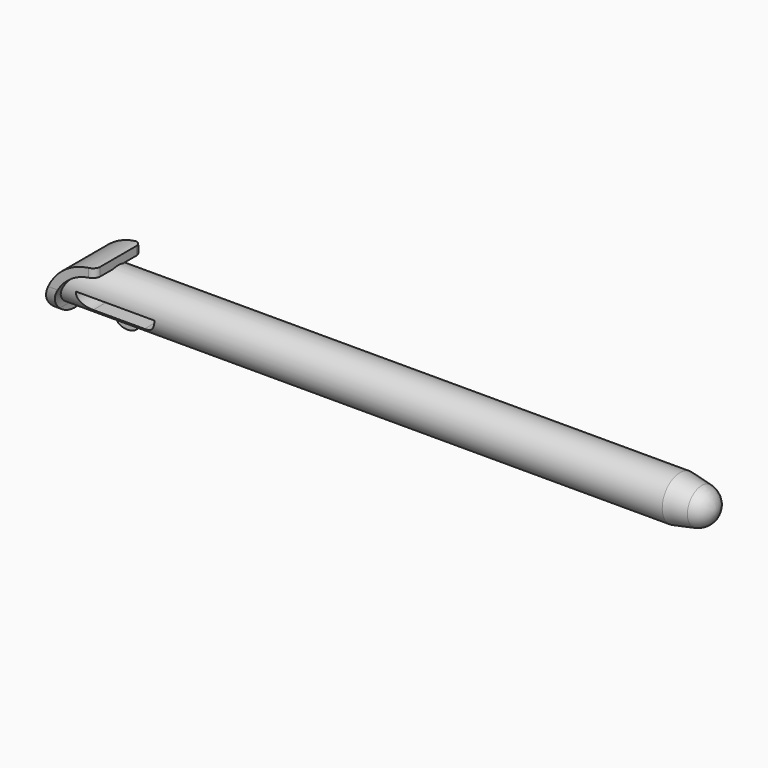
from build123d import *

# Parameters (mm, degrees)
SKETCH_R          = 2.6
PAD_DEPTH         = 76
PAD001_DEPTH      = 3.4
PAD001_DEPTH_BACK = 3.4
POCKET_DEPTH      = 10
POCKET001_DEPTH   = 5
PAD002_DEPTH      = 0.375
PAD002_DEPTH_BACK = 0.375
POCKET002_DEPTH   = 10
FILLET_R          = 0.75


with BuildPart() as part:
    # Sketch → Pad (new body)
    with BuildSketch(Plane.YZ):
        Circle(SKETCH_R)
    extrude(amount=PAD_DEPTH)

    # Sketch001 → Pad001 (join, two sides)
    with BuildSketch(Plane.XZ) as pad001_sk:
        with BuildLine():
            Line((6, 3.5), (6, 2.5))
            ThreePointArc((6, 2.5), (2.415927, 1.015429), (0.931356, -2.568644))
            Line((0.931356, -2.568644), (0.931356, -3.4))
            Line((0, -3.4), (0.931356, -3.4))
            Line((0, -3.4), (0, -1.717397))
            ThreePointArc((6, 3.5), (2.024412, 2.013227), (0, -1.717397))
        make_face()
    extrude(amount=PAD001_DEPTH)
    extrude(pad001_sk.sketch, amount=-PAD001_DEPTH_BACK)

    # Sketch002 (on Face8 of Pad001) → Pocket (cut)
    with BuildSketch(Plane(origin=(0, -3.4, 0), x_dir=(0, 0, -1), z_dir=(0, -1, 0))):
        with BuildLine():
            Line((3.4, 0), (3.4, -1))
            Line((3.4, -1), (-4.5, -1))
            Line((-4.5, -1), (-4.5, 6))
            Line((-4.5, 6), (-3.5, 6))
            ThreePointArc((-3.5, 6), (-2.013227, 2.024412), (1.717397, 0))
            Line((1.717397, 0), (3.4, 0))
        make_face()
    extrude(amount=-POCKET_DEPTH, mode=Mode.SUBTRACT)

    # Sketch003 (on Face10 of Pocket) → Pocket001 (cut)
    with BuildSketch(Plane(origin=(0, 0, 0), x_dir=(0, 1, 0), z_dir=(-1, 0, 0))):
        with BuildLine():
            Line((-3.4, 0), (-4.4, 0))
            Line((-4.4, 0), (-4.4, 5))
            Line((-4.4, 5), (4.4, 5))
            Line((4.4, 5), (4.4, 0))
            Line((4.4, 0), (3.4, 0))
            ThreePointArc((3.4, 0), (0, 3.400008), (-3.4, 0))
        make_face()
    extrude(amount=-POCKET001_DEPTH, mode=Mode.SUBTRACT)

    # Sketch004 → Pad002 (join, two sides)
    with BuildSketch(Plane.XZ) as pad002_sk:
        with BuildLine():
            add(Edge.make_bspline(
                [(8.6, -2.7), (8.6, -1.400962), (6.725, -2.050481), (4.85, -2.7), (6.725, -3.349519), (8.6, -3.999038), (8.6, -2.7)],
                knots=[0, 0, 0, 2.094395, 2.094395, 4.18879, 4.18879, 6.283185, 6.283185, 6.283185], degree=2, weights=[1, 0.5, 1, 0.5, 1, 0.5, 1]))
        make_face()
    extrude(amount=PAD002_DEPTH)
    extrude(pad002_sk.sketch, amount=-PAD002_DEPTH_BACK)

    # Sketch005 (on Face7 of Pad002) → Pocket002 (cut)
    with BuildSketch(Plane(origin=(0, -3.4, 0), x_dir=(0, 0, -1), z_dir=(0, -1, 0))):
        with BuildLine():
            Line((1.6, 4.7), (1.6, 10.7))
            ThreePointArc((1.6, 10.7), (1.131371, 11.831371), (0, 12.3))
            Line((0, 12.3), (0, 3.1))
            ThreePointArc((0, 3.1), (1.131371, 3.568629), (1.6, 4.7))
        make_face()
    extrude(amount=-POCKET002_DEPTH, mode=Mode.SUBTRACT)

    # Fillet
    fillet_edges = [part.edges().sort_by_distance(p)[0] for p in [
        (6, 3.4, 3),
        (6, -3.4, 3),
    ]]
    fillet(fillet_edges, radius=FILLET_R)

    # Sketch006 → Groove (revolve, cut)
    with BuildSketch(Plane.XZ):
        with BuildLine():
            ThreePointArc((76, 0), (75.506887, 1.370118), (74.253745, 2.11175))
            Line((71.7, 2.6), (74.253745, 2.11175))
            Line((76, 2.6), (71.7, 2.6))
            Line((76, 2.6), (77, 2.6))
            Line((77, 2.6), (77, 0))
            Line((77, 0), (76, 0))
        make_face()
    revolve(axis=Axis((0, 0, 0), (1, 0, 0)), mode=Mode.SUBTRACT)


solid = part.part
